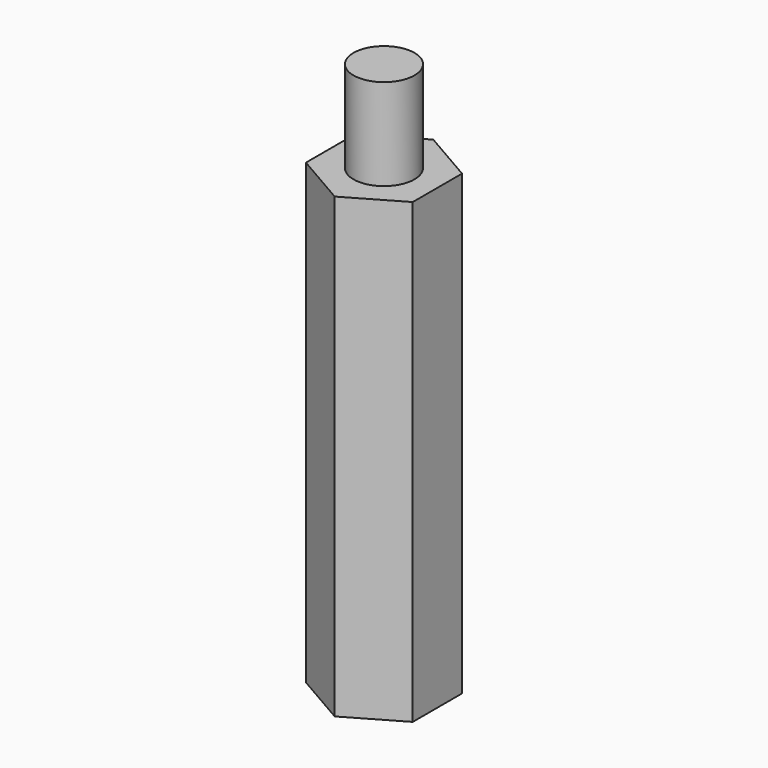
from build123d import *

# Parameters (mm, degrees)
F0_R          = 2
F1_DEPTH      = 30
F2_R          = 2
F3_DEPTH      = 6
F3_DEPTH_BACK = 10


with BuildPart() as f1:
    # F0 (on Top) → F1 (new body)
    with BuildSketch(Plane.XY):
        Polygon((3.5, -2.020726), (3.5, 2.020726), (0, 4.041452), (-3.5, 2.020726), (-3.5, -2.020726), (0, -4.041452), align=None)
        Circle(F0_R, mode=Mode.SUBTRACT)
    extrude(amount=F1_DEPTH)

    # F2 (on face) → F3 (join, two sides)
    with BuildSketch(Plane.XY.offset(30)) as f3_sk:
        Circle(F2_R)
    extrude(amount=F3_DEPTH)
    extrude(f3_sk.sketch, amount=-F3_DEPTH_BACK)


solid = f1.part
